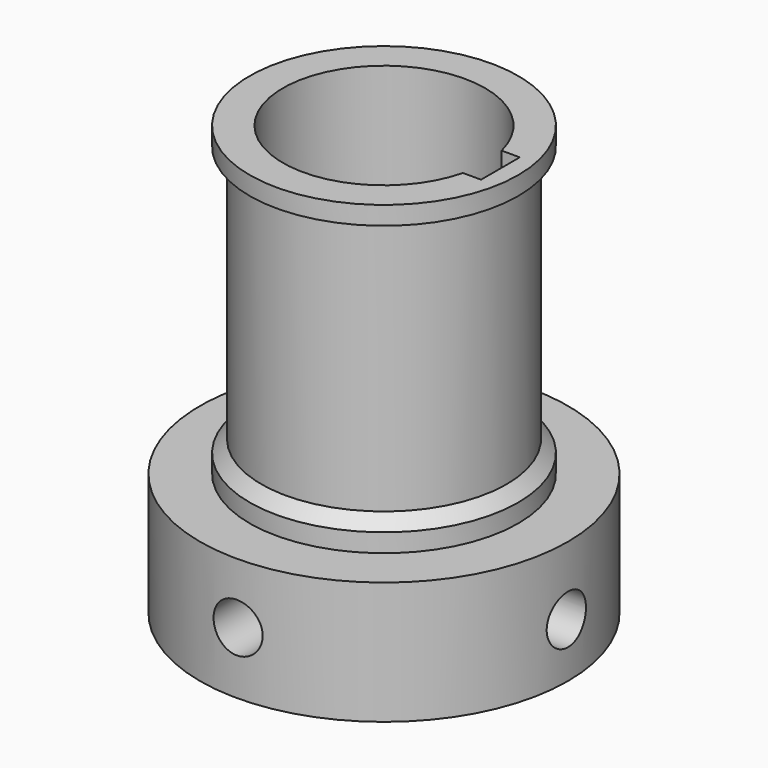
from build123d import *

# Parameters (mm, degrees)
F0_R      = 30
F1_DEPTH  = 20
F2_R      = 4
F3_DEPTH  = 30
F4_R      = 21.9
F5_DEPTH  = 5
F6_SIZE   = 2
F7_R      = 20
F7_R_2    = 19.9
F8_DEPTH  = 42
F9_R      = 21.9
F9_R_2    = 20
F10_DEPTH = 3
F12_DEPTH = 70
F13_R     = 4
F14_DEPTH = 30.0010001


with BuildPart() as f1:
    # F0 (on Top) → F1 (new body)
    with BuildSketch(Plane.XY):
        Circle(F0_R)
    extrude(amount=F1_DEPTH)

    # F2 (on Front) → F3 (cut)
    with BuildSketch(Plane.XZ):
        with Locations((0, 10.1209855556)):
            Circle(F2_R)
    extrude(amount=F3_DEPTH, mode=Mode.SUBTRACT)

    # F4 (on face) → F5 (join)
    with BuildSketch(Plane.XY.offset(20)):
        Circle(F4_R)
    extrude(amount=F5_DEPTH)

    # F6
    f6_edges = [f1.edges().sort_by_distance(p)[0] for p in [
        (-21.9, 0, 25),
    ]]
    chamfer(f6_edges, length=F6_SIZE)

    # F7 (on face) → F8 (join)
    with BuildSketch(Plane.XY.offset(25)):
        Circle(F7_R)
        Circle(F7_R_2, mode=Mode.SUBTRACT)
        Circle(F7_R_2)
    extrude(amount=F8_DEPTH)

    # F9 (on face) → F10 (join)
    with BuildSketch(Plane.XY.offset(67)):
        Circle(F9_R)
        Circle(F9_R_2, mode=Mode.SUBTRACT)
        Circle(F9_R_2)
    extrude(amount=F10_DEPTH)

    # F11 (on face) → F12 (cut)
    with BuildSketch(Plane.XY.offset(70)):
        with BuildLine():
            Line((18.9816207227, 3.9478135966), (16.0207605252, 3.9478135966))
            ThreePointArc((16.0207605252, 3.9478135966), (-16.5, 0), (16.0207605252, -3.9478135966))
            Line((16.0207605252, -3.9478135966), (18.9816207227, -3.9478135966))
            Line((18.9816207227, -3.9478135966), (18.9816207227, 3.9478135966))
        make_face()
    extrude(amount=-F12_DEPTH, mode=Mode.SUBTRACT)

    # F13 (on Right) → F14 (cut, through all)
    with BuildSketch(Plane.YZ):
        with Locations((0, 8.8561634937)):
            Circle(F13_R)
    extrude(amount=F14_DEPTH, mode=Mode.SUBTRACT)


solid = f1.part
